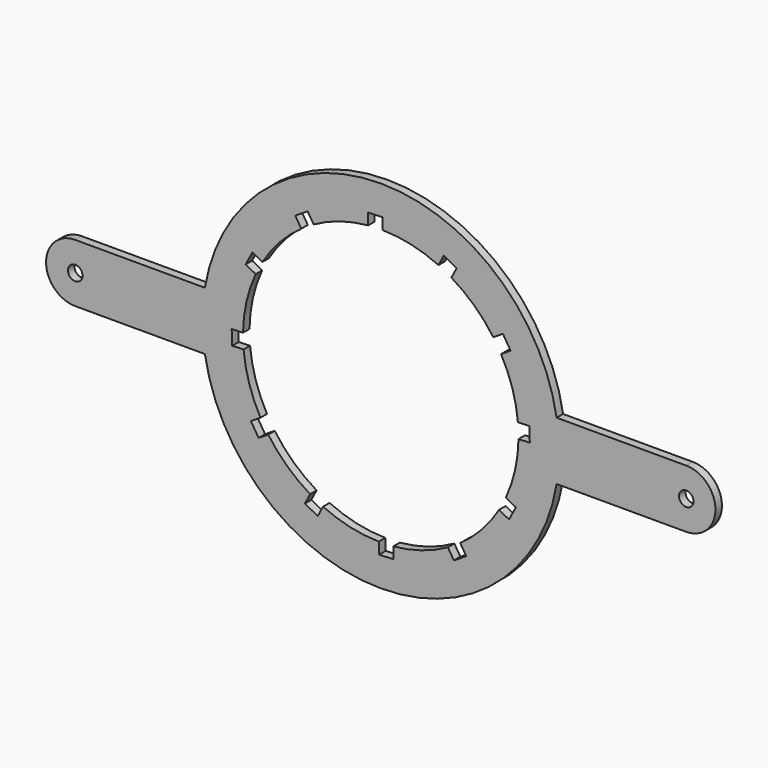
from build123d import *

# Parameters (mm, degrees)
F0_R     = 4.5
F1_DEPTH = 5


with BuildPart() as f1:
    # F0 (on Front) → F1 (new body)
    with BuildSketch(Plane.XZ):
        with BuildLine():
            Line((188.51728, 18), (108.51728, 18))
            ThreePointArc((108.51728, 18), (0, 110), (-108.51728, 18))
            Line((-108.51728, 18), (-188.51728, 18))
            ThreePointArc((-188.51728, 18), (-206.51728, 0), (-188.51728, -18))
            Line((-188.51728, -18), (-108.51728, -18))
            ThreePointArc((-108.51728, -18), (0, -110), (108.51728, -18))
            Line((108.51728, -18), (188.51728, -18))
            ThreePointArc((188.51728, -18), (206.51728, 0), (188.51728, 18))
        make_face()
        with Locations((-188.51728, 0)):
            Circle(F0_R, mode=Mode.SUBTRACT)
        with BuildLine():
            ThreePointArc((-84.990905, 1.243396), (-82.886565, 18.836597), (-77.180543, 35.611288))
            Line((-77.180543, 35.611288), (-83.372413, 38.876366))
            Line((-83.372413, 38.876366), (-79.174456, 46.837343))
            Line((-79.174456, 46.837343), (-72.982585, 43.572265))
            ThreePointArc((-72.982585, 43.572265), (-62.363572, 57.756254), (-49.034666, 69.430552))
            Line((-49.034666, 69.430552), (-52.764445, 75.354128))
            Line((-52.764445, 75.354128), (-45.148419, 80.149557))
            Line((-45.148419, 80.149557), (-41.41864, 74.225981))
            ThreePointArc((-41.41864, 74.225981), (-25.130311, 81.200169), (-7.749991, 84.645955))
            Line((-7.749991, 84.645955), (-8.018286, 91.640811))
            Line((-8.018286, 91.640811), (0.975101, 91.985762))
            Line((0.975101, 91.985762), (1.243396, 84.990905))
            ThreePointArc((1.243396, 84.990905), (18.836597, 82.886565), (35.611288, 77.180543))
            Line((35.611288, 77.180543), (38.876366, 83.372413))
            Line((38.876366, 83.372413), (46.837343, 79.174456))
            Line((46.837343, 79.174456), (43.572265, 72.982585))
            ThreePointArc((43.572265, 72.982585), (57.756254, 62.363572), (69.430552, 49.034666))
            Line((69.430552, 49.034666), (75.354128, 52.764445))
            Line((75.354128, 52.764445), (80.149557, 45.148419))
            Line((80.149557, 45.148419), (74.225981, 41.41864))
            ThreePointArc((74.225981, 41.41864), (81.200169, 25.130311), (84.645955, 7.749991))
            Line((84.645955, 7.749991), (91.640811, 8.018286))
            Line((91.640811, 8.018286), (91.985762, -0.975101))
            Line((91.985762, -0.975101), (84.990905, -1.243396))
            ThreePointArc((84.990905, -1.243396), (82.886565, -18.836597), (77.180543, -35.611288))
            Line((77.180543, -35.611288), (83.372413, -38.876366))
            Line((83.372413, -38.876366), (79.174456, -46.837343))
            Line((79.174456, -46.837343), (72.982585, -43.572265))
            ThreePointArc((72.982585, -43.572265), (62.363572, -57.756254), (49.034666, -69.430552))
            Line((49.034666, -69.430552), (52.764445, -75.354128))
            Line((52.764445, -75.354128), (45.148419, -80.149557))
            Line((45.148419, -80.149557), (41.41864, -74.225981))
            ThreePointArc((41.41864, -74.225981), (25.130311, -81.200169), (7.749991, -84.645955))
            Line((7.749991, -84.645955), (8.018286, -91.640811))
            Line((8.018286, -91.640811), (-0.975101, -91.985762))
            Line((-0.975101, -91.985762), (-1.243396, -84.990905))
            ThreePointArc((-1.243396, -84.990905), (-18.836597, -82.886565), (-35.611288, -77.180543))
            Line((-35.611288, -77.180543), (-38.876366, -83.372413))
            Line((-38.876366, -83.372413), (-46.837343, -79.174456))
            Line((-46.837343, -79.174456), (-43.572265, -72.982585))
            ThreePointArc((-43.572265, -72.982585), (-57.756254, -62.363572), (-69.430552, -49.034666))
            Line((-69.430552, -49.034666), (-75.354128, -52.764445))
            Line((-75.354128, -52.764445), (-80.149557, -45.148419))
            Line((-80.149557, -45.148419), (-74.225981, -41.41864))
            ThreePointArc((-74.225981, -41.41864), (-81.200169, -25.130311), (-84.645955, -7.749991))
            Line((-84.645955, -7.749991), (-91.640811, -8.018286))
            Line((-91.640811, -8.018286), (-91.985762, 0.975101))
            Line((-91.985762, 0.975101), (-84.990905, 1.243396))
        make_face(mode=Mode.SUBTRACT)
        with Locations((188.51728, 0)):
            Circle(F0_R, mode=Mode.SUBTRACT)
    extrude(amount=F1_DEPTH)


solid = f1.part
